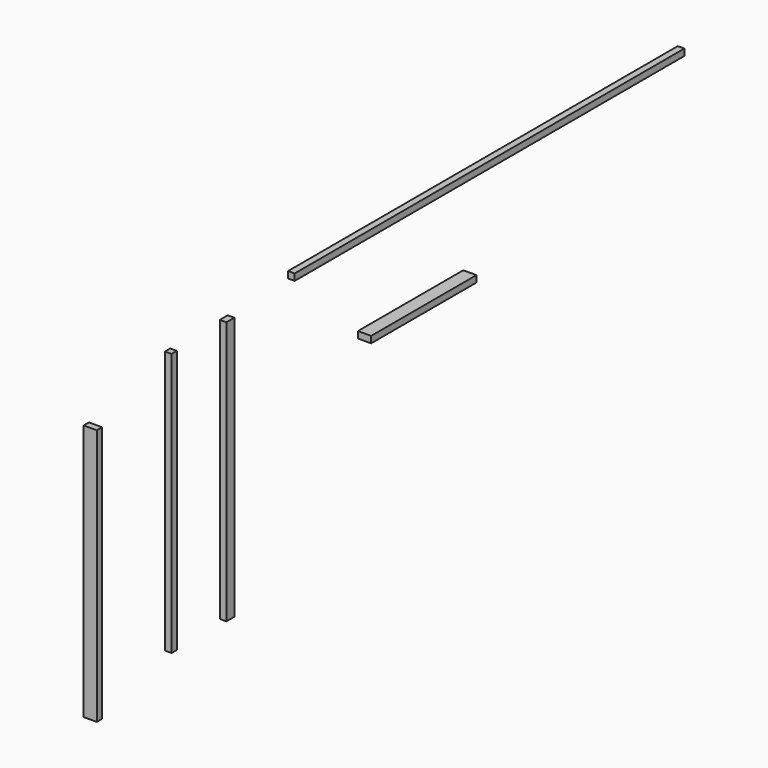
from build123d import *

# Parameters (mm, degrees)
F0_W     = 3700
F0_H     = 50
F0_W_2   = 75
F0_H_2   = 2000
F0_W_3   = 50
F1_DEPTH = 50
F0_W_4   = 1000
F0_H_3   = 1950
F2_DEPTH = 100


with BuildPart() as f1:
    # F0 (on Right) → F1 (new body)
    with BuildSketch(Plane.YZ):
        with Locations((1452.012424, 16.64005)):
            Rectangle(F0_W, F0_H)
        with Locations((-1008.83522, -1021.33131)):
            Rectangle(F0_W_2, F0_H_2)
        with Locations((-1541.988468, -1021.33131)):
            Rectangle(F0_W_3, F0_H_2)
    extrude(amount=F1_DEPTH)


with BuildPart() as f2:
    # F0 (on Right) → F2 (new body)
    with BuildSketch(Plane.YZ):
        with Locations((765.426189, -654.328084)):
            Rectangle(F0_W_4, F0_H)
        with Locations((-2313.923216, -1176.736259)):
            Rectangle(F0_W_3, F0_H_3)
    extrude(amount=F2_DEPTH)


solid = Compound([f1.part, f2.part])
